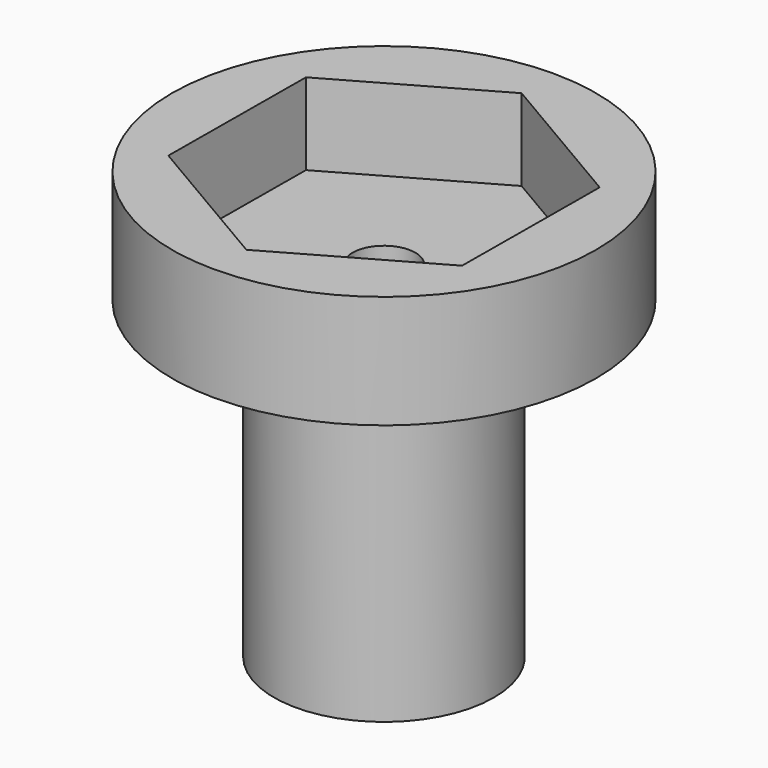
from build123d import *

# Parameters (mm, degrees)
F0_R     = 6.75
F1_DEPTH = 3.6
F2_DEPTH = 1
F3_R     = 1
F4_DEPTH = 25
F6_DEPTH = 10
F8_R     = 3.5
F9_DEPTH = 10


with BuildPart() as f1:
    # F0 (on Top) → F1 (new body)
    with BuildSketch(Plane.XY):
        Circle(F0_R)
        Polygon((-4.6808759634, 2.7464037483), (0.0380174333, 5.4269593704), (4.7188933967, 2.6805556222), (4.6808759634, -2.7464037483), (-0.0380174333, -5.4269593704), (-4.7188933967, -2.6805556222), align=None, mode=Mode.SUBTRACT)
    extrude(amount=F1_DEPTH)

    # F0 (on Top) → F2 (join)
    with BuildSketch(Plane.XY):
        Polygon((4.7188933967, 2.6805556222), (0.0380174333, 5.4269593704), (-4.6808759634, 2.7464037483), (-4.7188933967, -2.6805556222), (-0.0380174333, -5.4269593704), (4.6808759634, -2.7464037483), align=None)
    extrude(amount=F2_DEPTH)

    # F3 (on face) → F4 (cut)
    with BuildSketch(Plane.XY.offset(1)):
        Circle(F3_R)
    extrude(amount=-F4_DEPTH, mode=Mode.SUBTRACT)

    # F5 (on face) → F6 (join)
    with BuildSketch(Plane.XY):
        with BuildLine():
            ThreePointArc((0.3, -0.9539392014), (0, -1), (-0.3, -0.9539392014))
            add(Edge.make_bspline(
                [(-0.3, -0.9539392014), (-0.2571564854, -1.7815360064), (-0.0005705868, -3.4185465418), (0.2582976589, -1.7813709101), (0.3, -0.9539392014)],
                knots=[0, 0, 0, 0, 0.5, 1, 1, 1, 1], degree=3))
        make_face()
    extrude(amount=-F6_DEPTH)

    # F8 (on face) → F9 (join)
    with BuildSketch(Plane(origin=(0, 0, 0), x_dir=(1, 0, 0), z_dir=(0, 0, -1))):
        Circle(F8_R)
        with BuildLine():
            ThreePointArc((0.3, 0.9539392014), (0.8062257748, 0.5916079783), (1, 0))
            ThreePointArc((1, 0), (-0.5916079783, -0.8062257748), (-0.3, 0.9539392014))
            add(Edge.make_bspline(
                [(-0.3, 0.9539392014), (-0.2571564854, 1.7815360064), (-0.0005705868, 3.4185465418), (0.2582976589, 1.7813709101), (0.3, 0.9539392014)],
                knots=[0, 0, 0, 0, 0.5, 1, 1, 1, 1], degree=3))
        make_face(mode=Mode.SUBTRACT)
    extrude(amount=F9_DEPTH)


solid = f1.part
